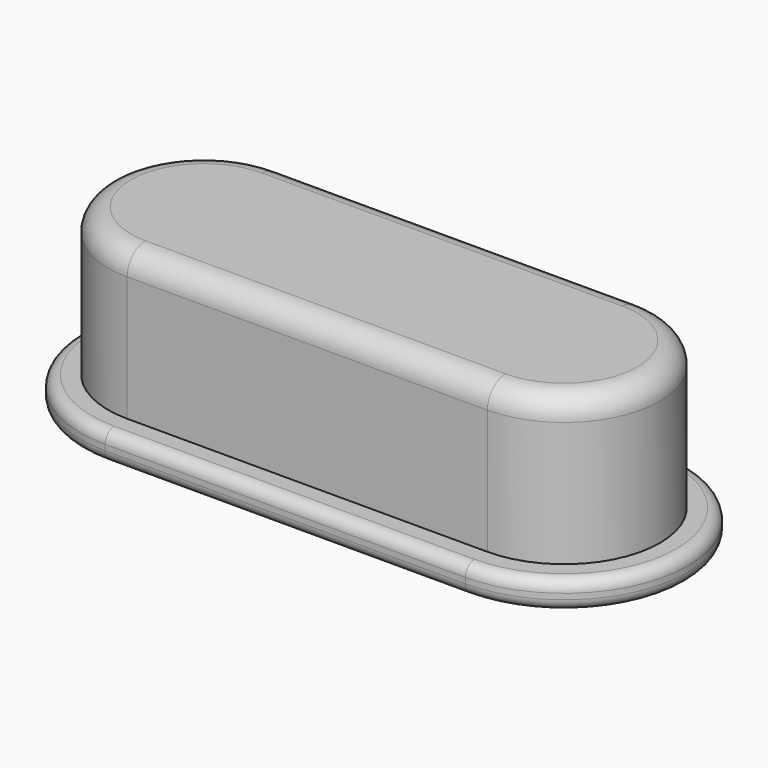
from build123d import *

# Parameters (mm, degrees)
PAD_DEPTH    = 0.5
PAD001_DEPTH = 2.6
FILLET_R     = 0.4
FILLET001_R  = 0.2


with BuildPart() as part:
    # Sketch → Pad (new body)
    with BuildSketch(Plane.XY):
        with BuildLine():
            ThreePointArc((-3.175, 2.175), (-5.35, 0), (-3.175, -2.175))
            Line((-3.175, -2.175), (3.175, -2.175))
            ThreePointArc((3.175, -2.175), (5.35, 0), (3.175, 2.175))
            Line((-3.175, 2.175), (3.175, 2.175))
        make_face()
    extrude(amount=PAD_DEPTH)

    # Sketch001 (on Face6 of Pad) → Pad001 (join)
    with BuildSketch(Plane.XY.offset(0.5)):
        with BuildLine():
            ThreePointArc((-3.175, 1.69), (-4.865, 0), (-3.175, -1.69))
            Line((-3.175, -1.69), (3.175, -1.69))
            ThreePointArc((3.175, -1.69), (4.865, 0), (3.175, 1.69))
            Line((-3.175, 1.69), (3.175, 1.69))
        make_face()
    extrude(amount=PAD001_DEPTH)

    # Fillet
    fillet_edges = [part.edges().sort_by_distance(p)[0] for p in [
        (0, -1.69, 3.1),
    ]]
    fillet(fillet_edges, radius=FILLET_R)

    # Fillet001
    fillet001_edges = [part.edges().sort_by_distance(p)[0] for p in [
        (-5.35, 0, 0.5),
        (-5.35, 0, 0),
    ]]
    fillet(fillet001_edges, radius=FILLET001_R)


solid = part.part
